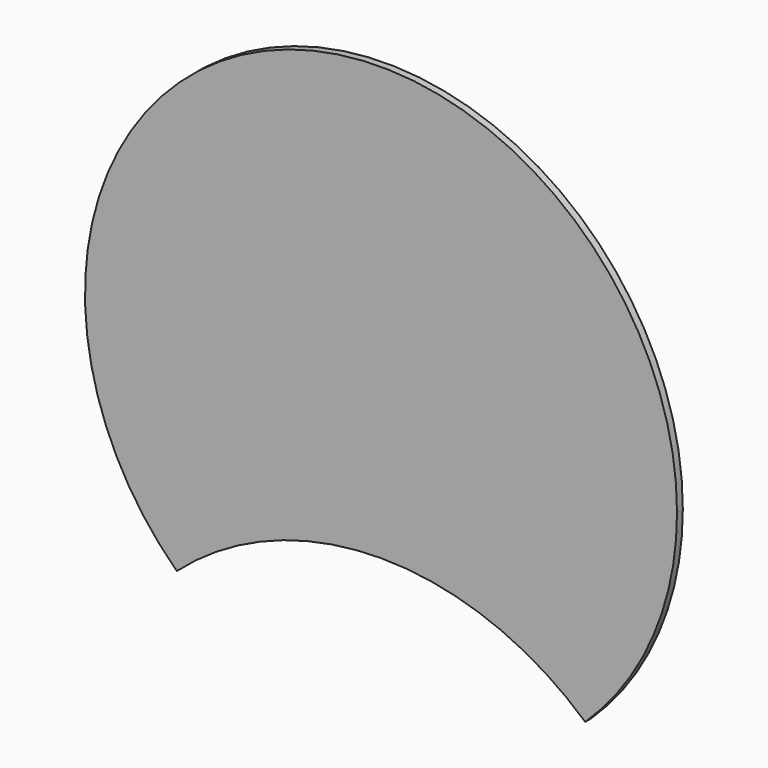
from build123d import *

# Parameters (mm, degrees)
F1_DEPTH = 6


with BuildPart() as f1:
    # F0 (on Front) → F1 (new body)
    with BuildSketch(Plane.XZ):
        with BuildLine():
            ThreePointArc((168.999449, -177.381471), (225.199761, -96.488691), (245, 0))
            ThreePointArc((245, 0), (-96.488691, 225.199761), (-168.999449, -177.381471))
            ThreePointArc((-168.999449, -177.381471), (0, -113), (168.999449, -177.381471))
        make_face()
    extrude(amount=F1_DEPTH)


solid = f1.part
